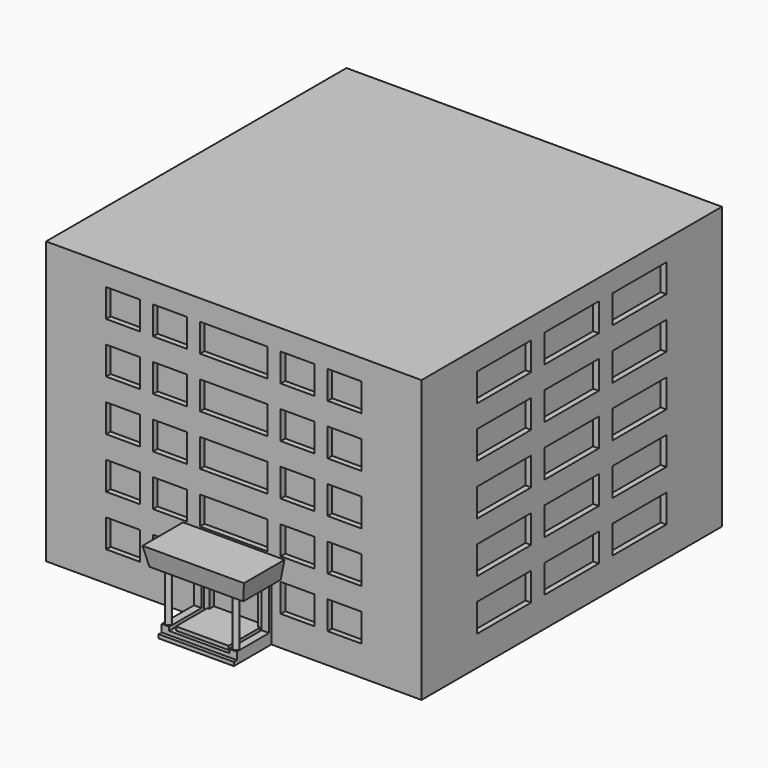
from build123d import *

# Parameters (mm, degrees)
F0_W      = 200
F0_H      = 200
F1_DEPTH  = 150
F2_W      = 40
F2_H      = 25
F3_DEPTH  = 2
F4_W      = 32
F4_H      = 23
F5_DEPTH  = 2
F6_W      = 28
F6_H      = 21
F7_DEPTH  = 2
F8_W      = 4
F8_H      = 23
F9_DEPTH  = 4
F10_R     = 1.5
F11_DEPTH = 26
F14_W     = 54
F14_H     = 27
F12_W     = 50
F12_H     = 25
F16_W     = 4
F16_H     = 26
F17_DEPTH = 1.5
F18_W     = 18
F18_H     = 15
F18_W_2   = 26
F18_H_2   = 26
F19_DEPTH = 3
F20_W     = 36
F20_H     = 15
F21_DEPTH = 3
F22_W     = 36
F22_H     = 15
F22_W_2   = 15
F22_H_2   = 25
F23_DEPTH = 3
F24_W     = 20
F24_H     = 4
F25_DEPTH = 10
F26_W     = 20
F26_H     = 15
F26_W_2   = 10
F27_DEPTH = 3


with BuildPart() as f1:
    # F0 (on Top) → F1 (new body)
    with BuildSketch(Plane.XY):
        with Locations((100, -100)):
            Rectangle(F0_W, F0_H)
    extrude(amount=F1_DEPTH)

    # F2 (on Top) → F3 (join)
    with BuildSketch(Plane.XY):
        with Locations((100, -212.5)):
            Rectangle(F2_W, F2_H)
    extrude(amount=F3_DEPTH)

    # F4 (on face) → F5 (join)
    with BuildSketch(Plane.XY.offset(2)):
        with Locations((100, -211.5)):
            Rectangle(F4_W, F4_H)
    extrude(amount=F5_DEPTH)

    # F6 (on face) → F7 (join)
    with BuildSketch(Plane.XY.offset(4)):
        with Locations((100, -210.5)):
            Rectangle(F6_W, F6_H)
    extrude(amount=F7_DEPTH)

    # F8 (on face) → F9 (join)
    with BuildSketch(Plane.XY.offset(2)):
        with Locations((82, -211.5)):
            Rectangle(F8_W, F8_H)
        with Locations((118, -211.5)):
            Rectangle(F8_W, F8_H)
    extrude(amount=F9_DEPTH)

    # F10 (on face) → F11 (join)
    with BuildSketch(Plane.XY.offset(6)):
        with Locations((82, -221)):
            Circle(F10_R)
        with Locations((118, -221)):
            Circle(F10_R)
    extrude(amount=F11_DEPTH)

    # F14 (on offset) → F15 section 0
    with BuildSketch(Plane.XY.offset(42)):
        with Locations((100, -213.5)):
            Rectangle(F14_W, F14_H)
    # F12 (on face) → F15 section 1
    with BuildSketch(Plane.XY.offset(32)):
        with Locations((100, -212.5)):
            Rectangle(F12_W, F12_H)
    loft()

    # F16 (on face) → F17 (join)
    with BuildSketch(Plane.XZ.offset(200)):
        with Locations((82, 19)):
            Rectangle(F16_W, F16_H)
        with Locations((118, 19)):
            Rectangle(F16_W, F16_H)
    extrude(amount=F17_DEPTH)

    # F18 (on face) → F19 (cut)
    with BuildSketch(Plane.XZ.offset(200)):
        with Locations((41, 131.5)):
            Rectangle(F18_W, F18_H)
        with Locations((41, 104.5)):
            Rectangle(F18_W, F18_H)
        with Locations((41, 77.5)):
            Rectangle(F18_W, F18_H)
        with Locations((41, 50.5)):
            Rectangle(F18_W, F18_H)
        with Locations((41, 23.5)):
            Rectangle(F18_W, F18_H)
        with Locations((66, 131.5)):
            Rectangle(F18_W, F18_H)
        with Locations((66, 104.5)):
            Rectangle(F18_W, F18_H)
        with Locations((66, 77.5)):
            Rectangle(F18_W, F18_H)
        with Locations((66, 50.5)):
            Rectangle(F18_W, F18_H)
        with Locations((66, 23.5)):
            Rectangle(F18_W, F18_H)
        with Locations((91, 131.5)):
            Rectangle(F18_W, F18_H)
        with Locations((109, 131.5)):
            Rectangle(F18_W, F18_H)
        with Locations((91, 104.5)):
            Rectangle(F18_W, F18_H)
        with Locations((109, 104.5)):
            Rectangle(F18_W, F18_H)
        with Locations((91, 77.5)):
            Rectangle(F18_W, F18_H)
        with Locations((109, 77.5)):
            Rectangle(F18_W, F18_H)
        with Locations((91, 50.5)):
            Rectangle(F18_W, F18_H)
        with Locations((109, 50.5)):
            Rectangle(F18_W, F18_H)
        with Locations((134, 77.5)):
            Rectangle(F18_W, F18_H)
        with Locations((134, 23.5)):
            Rectangle(F18_W, F18_H)
        with Locations((134, 131.5)):
            Rectangle(F18_W, F18_H)
        with Locations((159, 50.5)):
            Rectangle(F18_W, F18_H)
        with Locations((159, 77.5)):
            Rectangle(F18_W, F18_H)
        with Locations((159, 104.5)):
            Rectangle(F18_W, F18_H)
        with Locations((159, 131.5)):
            Rectangle(F18_W, F18_H)
        with Locations((134, 104.5)):
            Rectangle(F18_W, F18_H)
        with Locations((134, 50.5)):
            Rectangle(F18_W, F18_H)
        with Locations((159, 23.5)):
            Rectangle(F18_W, F18_H)
        with Locations((100, 19)):
            Rectangle(F18_W_2, F18_H_2)
    extrude(amount=-F19_DEPTH, mode=Mode.SUBTRACT)

    # F20 (on face) → F21 (cut)
    with BuildSketch(Plane.YZ.offset(200)):
        with Locations((-145, 131.5)):
            Rectangle(F20_W, F20_H)
        with Locations((-100, 131.5)):
            Rectangle(F20_W, F20_H)
        with Locations((-55, 131.5)):
            Rectangle(F20_W, F20_H)
        with Locations((-145, 104.5)):
            Rectangle(F20_W, F20_H)
        with Locations((-145, 77.5)):
            Rectangle(F20_W, F20_H)
        with Locations((-145, 50.5)):
            Rectangle(F20_W, F20_H)
        with Locations((-145, 23.5)):
            Rectangle(F20_W, F20_H)
        with Locations((-100, 104.5)):
            Rectangle(F20_W, F20_H)
        with Locations((-55, 104.5)):
            Rectangle(F20_W, F20_H)
        with Locations((-100, 77.5)):
            Rectangle(F20_W, F20_H)
        with Locations((-55, 77.5)):
            Rectangle(F20_W, F20_H)
        with Locations((-100, 50.5)):
            Rectangle(F20_W, F20_H)
        with Locations((-55, 50.5)):
            Rectangle(F20_W, F20_H)
        with Locations((-100, 23.5)):
            Rectangle(F20_W, F20_H)
        with Locations((-55, 23.5)):
            Rectangle(F20_W, F20_H)
    extrude(amount=-F21_DEPTH, mode=Mode.SUBTRACT)

    # F22 (on face) → F23 (cut)
    with BuildSketch(Plane(origin=(0, 0, 0), x_dir=(0, -1, 0), z_dir=(-1, 0, 0))):
        with Locations((55, 131.5)):
            Rectangle(F22_W, F22_H)
        with Locations((55, 104.5)):
            Rectangle(F22_W, F22_H)
        with Locations((55, 77.5)):
            Rectangle(F22_W, F22_H)
        with Locations((55, 50.5)):
            Rectangle(F22_W, F22_H)
        with Locations((55, 23.5)):
            Rectangle(F22_W, F22_H)
        with Locations((100, 131.5)):
            Rectangle(F22_W, F22_H)
        with Locations((100, 104.5)):
            Rectangle(F22_W, F22_H)
        with Locations((100, 77.5)):
            Rectangle(F22_W, F22_H)
        with Locations((100, 50.5)):
            Rectangle(F22_W, F22_H)
        with Locations((145, 131.5)):
            Rectangle(F22_W, F22_H)
        with Locations((145, 104.5)):
            Rectangle(F22_W, F22_H)
        with Locations((145, 77.5)):
            Rectangle(F22_W, F22_H)
        with Locations((145, 50.5)):
            Rectangle(F22_W, F22_H)
        with Locations((145, 23.5)):
            Rectangle(F22_W, F22_H)
        with Locations((100, 12.5)):
            Rectangle(F22_W_2, F22_H_2)
    extrude(amount=-F23_DEPTH, mode=Mode.SUBTRACT)

    # F24 (on face) → F25 (join)
    with BuildSketch(Plane(origin=(0, 0, 0), x_dir=(0, -1, 0), z_dir=(-1, 0, 0))):
        with Locations((100, 29)):
            Rectangle(F24_W, F24_H)
    extrude(amount=F25_DEPTH)

    # F26 (on face) → F27 (cut)
    with BuildSketch(Plane(origin=(0, 0, 0), x_dir=(-1, 0, 0), z_dir=(0, 1, 0))):
        with Locations((-158.7849893169, 131.5)):
            Rectangle(F26_W, F26_H)
        with Locations((-135.7849893169, 131.5)):
            Rectangle(F26_W_2, F26_H)
        with Locations((-158.7849893169, 104.5)):
            Rectangle(F26_W, F26_H)
        with Locations((-135.7849893169, 104.5)):
            Rectangle(F26_W_2, F26_H)
        with Locations((-158.7849893169, 77.5)):
            Rectangle(F26_W, F26_H)
        with Locations((-135.7849893169, 77.5)):
            Rectangle(F26_W_2, F26_H)
        with Locations((-158.7849893169, 50.5)):
            Rectangle(F26_W, F26_H)
        with Locations((-135.7849893169, 50.5)):
            Rectangle(F26_W_2, F26_H)
        with Locations((-158.7849893169, 23.5)):
            Rectangle(F26_W, F26_H)
        with Locations((-135.7849893169, 23.5)):
            Rectangle(F26_W_2, F26_H)
    extrude(amount=-F27_DEPTH, mode=Mode.SUBTRACT)


solid = f1.part
